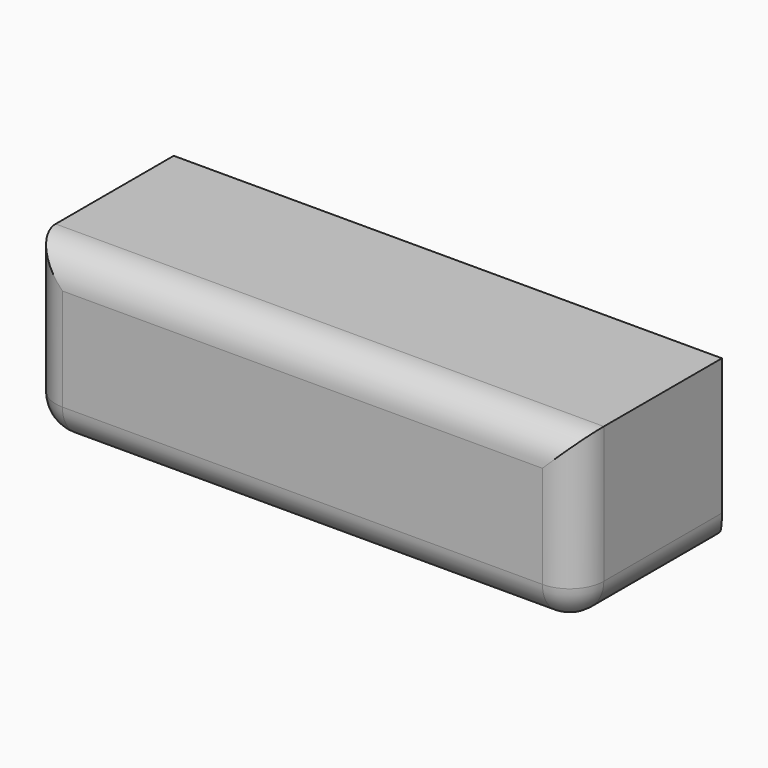
from build123d import *

# Parameters (mm, degrees)
F1_DEPTH = 25.4
F2_SIZE  = 5.08
F3_R     = 5.08


with BuildPart() as f1:
    # F0 (on Top) → F1 (new body)
    with BuildSketch(Plane.XY):
        Polygon((19.4402, -9.906404), (19.4402, 22.270419), (-62.312644, 22.270419), (-62.312644, -9.906404), (-20.164922, -9.906404), align=None)
    extrude(amount=F1_DEPTH)

    # F2
    f2_edges = [f1.edges().sort_by_distance(p)[0] for p in [
        (19.4402, 22.270419, 12.7),
        (-62.312644, 22.270419, 12.7),
        (-21.436222, 22.270419, 0),
        (-21.436222, 22.270419, 25.4),
    ]]
    chamfer(f2_edges, length=F2_SIZE)

    # F3
    f3_edges = [f1.edges().sort_by_distance(p)[0] for p in [
        (-62.312644, -9.906404, 12.7),
        (-21.436222, -9.906404, 25.4),
        (19.4402, -9.906404, 12.7),
        (-21.436222, -9.906404, 0),
        (19.4402, 3.642007, 0),
        (-62.312644, 3.642007, 0),
    ]]
    fillet(f3_edges, radius=F3_R)


solid = f1.part
